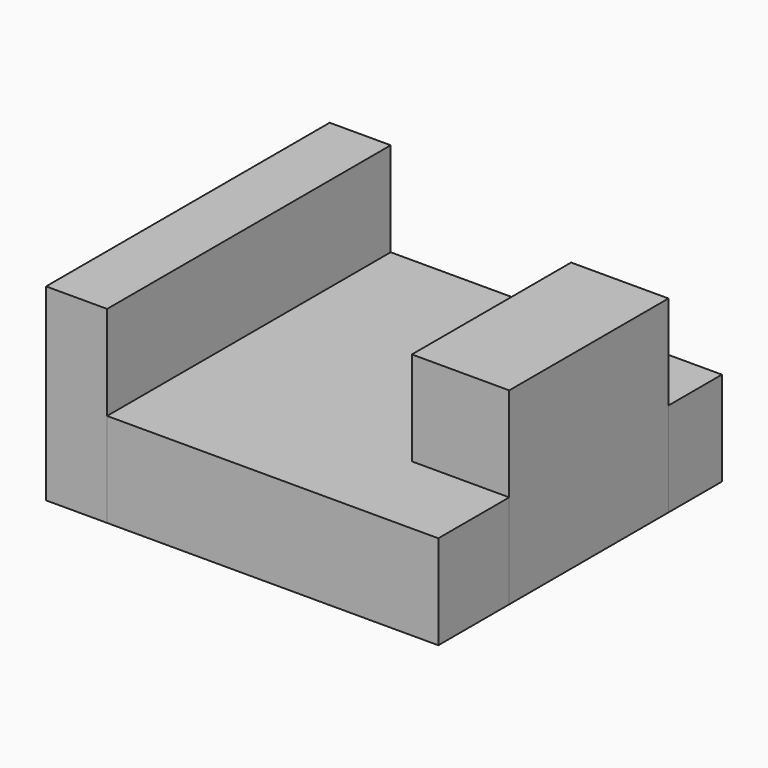
from build123d import *

# Parameters (mm, degrees)
F0_W     = 8.226242
F0_H     = 47.79055
F0_W_2   = 13.122815
F0_H_2   = 26.833224
F1_DEPTH = 25.4
F2_DEPTH = 12.7


with BuildPart() as f1:
    # F0 (on Top) → F1 (new body)
    with BuildSketch(Plane.XY):
        with Locations((-37.605679, 38.487062)):
            Rectangle(F0_W, F0_H)
        with Locations((4.602778, 39.956036)):
            Rectangle(F0_W_2, F0_H_2)
    extrude(amount=F1_DEPTH)


with BuildPart() as f2:
    # F0 (on Top) → F2 (new body)
    with BuildSketch(Plane.XY):
        Polygon((11.164186, 62.382337), (-33.492558, 62.382337), (-33.492558, 14.591787), (11.164186, 14.591787), (11.164186, 26.539424), (-1.958629, 26.539424), (-1.958629, 53.372648), (11.164186, 53.372648), align=None)
    extrude(amount=F2_DEPTH)


solid = Compound([f1.part, f2.part])
